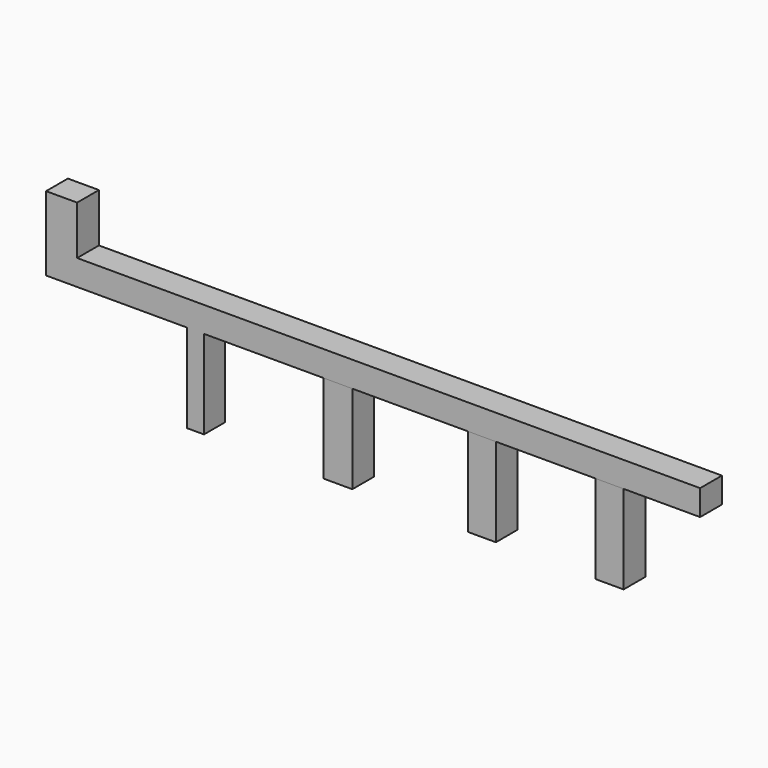
from build123d import *

# Parameters (mm, degrees)
F0_W     = 4.628681
F0_H     = 7.273636
F0_W_2   = 45.790847
F0_H_2   = 3.802128
F1_DEPTH = 4.064
F2_W     = 4.309264
F2_H     = 4.038933
F2_W_2   = 4.170255
F2_W_3   = 4.170256
F3_DEPTH = 13.208


with BuildPart() as f1:
    # F0 (on Front) → F1 (new body)
    with BuildSketch(Plane.XZ):
        with Locations((-49.427665, 7.438946)):
            Rectangle(F0_W, F0_H)
        Polygon((-51.742006, 0), (0, 0), (0, 3.802128), (-47.113325, 3.802128), (-51.742006, 3.802128), align=None)
        with Locations((22.895423, 1.901064)):
            Rectangle(F0_W_2, F0_H_2)
    extrude(amount=-F1_DEPTH)

    # F2 (on Top) → F3 (join)
    with BuildSketch(Plane.XY):
        Polygon((-28.196542, 3.916214), (-30.752182, 3.968637), (-30.752182, 0), (-28.196542, 0), align=None)
        with Locations((-8.227787, 2.019467)):
            Rectangle(F2_W, F2_H)
        with Locations((13.249029, 2.019467)):
            Rectangle(F2_W_2, F2_H)
        with Locations((32.293196, 2.019467)):
            Rectangle(F2_W_3, F2_H)
    extrude(amount=-F3_DEPTH)


solid = f1.part
